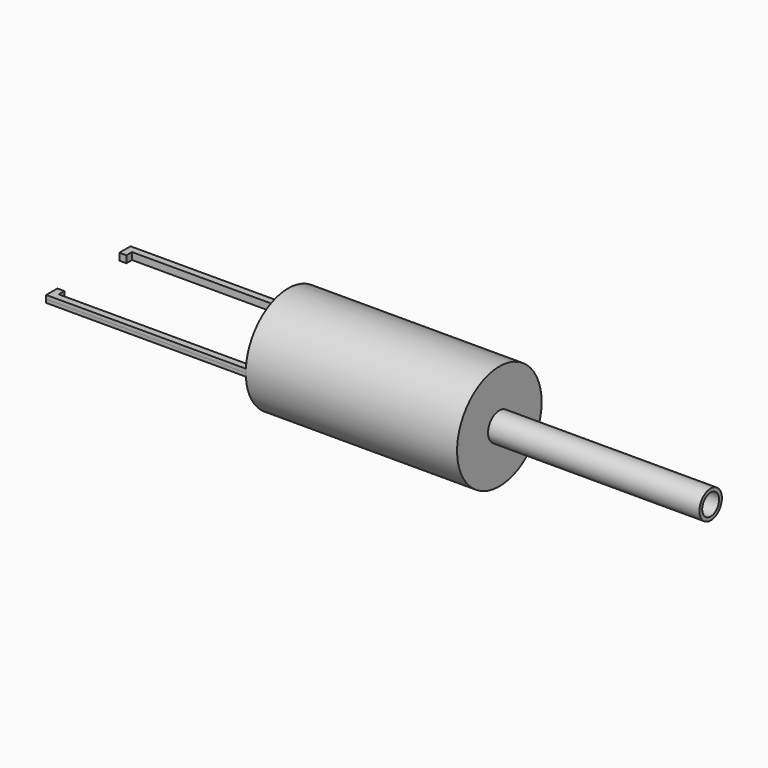
from build123d import *

# Parameters (mm, degrees)
F0_R      = 19.05
F1_DEPTH  = 76.2
F2_R      = 5.08
F3_DEPTH  = 76.2
F4_R      = 3.81
F5_DEPTH  = 88.9
F6_W      = 67.31
F6_H      = 16.51
F9_DEPTH  = 72
F10_W     = 2.54
F10_H     = 2.54
F11_DEPTH = 2.54
F12_W     = 2.54
F12_H     = 2.54
F13_DEPTH = 2.54


with BuildPart() as f1:
    # F0 (on Right) → F1 (new body)
    with BuildSketch(Plane.YZ):
        Circle(F0_R)
    extrude(amount=-F1_DEPTH)

    # F2 (on face) → F3 (join)
    with BuildSketch(Plane.YZ):
        Circle(F2_R)
    extrude(amount=F3_DEPTH)

    # F4 (on face) → F5 (cut)
    with BuildSketch(Plane.YZ.offset(76.2)):
        Circle(F4_R)
    extrude(amount=-F5_DEPTH, mode=Mode.SUBTRACT)

    # F6 (on Front) → F7 (revolve, cut)
    with BuildSketch(Plane.XZ):
        with Locations((-42.545, -8.255)):
            Rectangle(F6_W, F6_H)
        with BuildLine():
            Line((-2.54, 0), (-8.89, 0))
            Line((-8.89, 0), (-8.89, -16.51))
            ThreePointArc((-8.89, -16.51), (-4.1822309544, -8.844526556), (-2.54, 0))
        make_face()
    revolve(axis=Axis((-39.37, 0, 0), (1, 0, 0)), mode=Mode.SUBTRACT)


with BuildPart() as f9:
    # F8 (on face) → F9 (new body)
    with BuildSketch(Plane(origin=(-76.2, 0, 0), x_dir=(0, -1, 0), z_dir=(-1, 0, 0))):
        with BuildLine():
            Line((-16.51, 1.27), (-19.0076195248, 1.27))
            ThreePointArc((-19.0076195248, 1.27), (-19.0394019332, 0.6353534655), (-19.05, 0))
            Line((-19.05, 0), (-16.51, 0))
            Line((-16.51, 0), (-16.51, 1.27))
        make_face()
        with BuildLine():
            ThreePointArc((-19.05, 0), (-19.0394019332, -0.6353534655), (-19.0076195248, -1.27))
            Line((-19.0076195248, -1.27), (-16.51, -1.27))
            Line((-16.51, -1.27), (-16.51, 0))
            Line((-16.51, 0), (-19.05, 0))
        make_face()
    extrude(amount=F9_DEPTH)

    # F12 (on face) → F13 (join)
    with BuildSketch(Plane.XZ.offset(-16.51)):
        with Locations((-146.93, 0)):
            Rectangle(F12_W, F12_H)
    extrude(amount=F13_DEPTH)


with BuildPart() as f9b:
    # F8 (on face) → F9, piece 2 (new body)
    with BuildSketch(Plane(origin=(-76.2, 0, 0), x_dir=(0, -1, 0), z_dir=(-1, 0, 0))):
        with BuildLine():
            Line((16.51, 0), (19.05, 0))
            ThreePointArc((19.05, 0), (19.0394019332, 0.6353534655), (19.0076195248, 1.27))
            Line((19.0076195248, 1.27), (16.51, 1.27))
            Line((16.51, 1.27), (16.51, 0))
        make_face()
        with BuildLine():
            ThreePointArc((19.0076195248, -1.27), (19.0394019332, -0.6353534655), (19.05, 0))
            Line((19.05, 0), (16.51, 0))
            Line((16.51, 0), (16.51, -1.27))
            Line((16.51, -1.27), (19.0076195248, -1.27))
        make_face()
    extrude(amount=F9_DEPTH)

    # F10 (on face) → F11 (join)
    with BuildSketch(Plane(origin=(0, -16.51, 0), x_dir=(-1, 0, 0), z_dir=(0, 1, 0))):
        with Locations((146.93, 0)):
            Rectangle(F10_W, F10_H)
    extrude(amount=F11_DEPTH)


solid = Compound([f1.part, f9.part, f9b.part])
